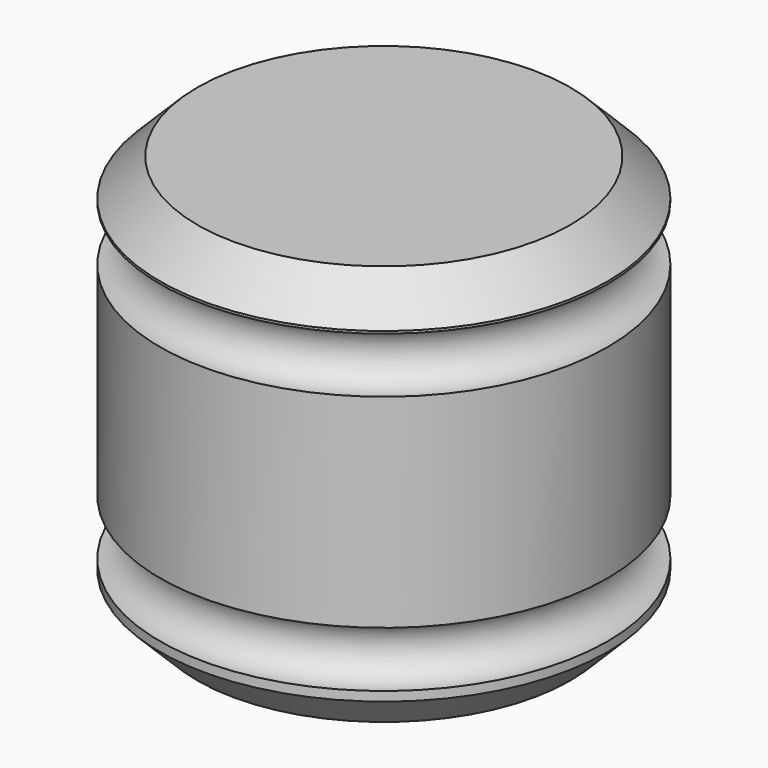
from build123d import *

# Parameters (mm, degrees)
F2_SIZE = 5.08


with BuildPart() as f1:
    # F0 (on Front) → F1 (revolve)
    with BuildSketch(Plane.XZ):
        with BuildLine():
            Line((-30.36179, 0), (0, 0))
            Line((0, 0), (0, 6.348697))
            ThreePointArc((0, 6.348697), (-3.7719, 10.120597), (0, 13.892497))
            Line((0, 13.892497), (0, 41.490039))
            ThreePointArc((0, 41.490039), (-3.766214, 45.256253), (0, 49.022468))
            Line((0, 49.022468), (0, 54.422077))
            Line((0, 54.422077), (-30.36179, 54.422077))
            Line((-30.36179, 54.422077), (-30.36179, 0))
        make_face()
    revolve(axis=Axis((-30.36179, 0, 27.211038), (0, 0, 1)))

    # F2
    f2_edges = [f1.edges().sort_by_distance(p)[0] for p in [
        (-60.72358, 0, 54.422077),
        (-60.72358, 0, 0),
    ]]
    chamfer(f2_edges, length=F2_SIZE)


solid = f1.part
